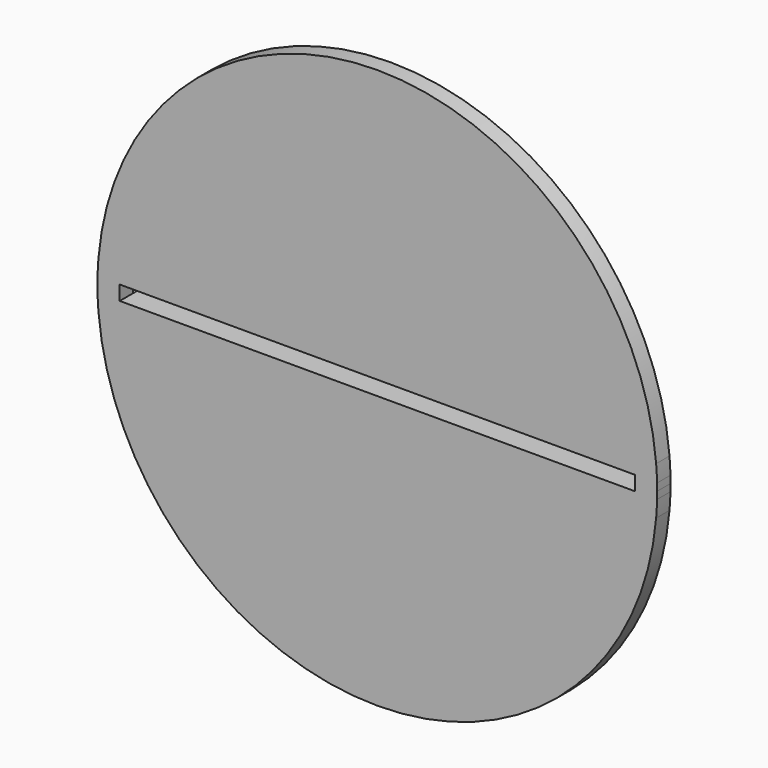
from build123d import *

# Parameters (mm, degrees)
F0_W     = 50
F0_H     = 3
F0_W_2   = 21.25
F1_DEPTH = 3
F2_DEPTH = 2


with BuildPart() as f1:
    # F0 (on Front) → F1 (new body)
    with BuildSketch(Plane.XZ):
        with BuildLine():
            ThreePointArc((50.233181265, -1.3), (50.2457951403, -0.6500543958), (50.25, 0))
            ThreePointArc((50.25, 0), (50.2457951403, 0.6500543958), (50.233181265, 1.3))
            Line((50.233181265, 1.3), (46.25, 1.3))
            Line((46.25, 1.3), (46.25, -1.3))
            Line((46.25, -1.3), (50.233181265, -1.3))
        make_face()
        with BuildLine():
            Line((46.25, 1.3), (50.233181265, 1.3))
            ThreePointArc((50.233181265, 1.3), (50.171859503, 2.8012522223), (50.0656818589, 4.3))
            Line((50.0656818589, 4.3), (46.25, 4.3))
            Line((46.25, 4.3), (46.25, 1.3))
        make_face()
        with BuildLine():
            ThreePointArc((50.0656818589, -4.3), (50.171859503, -2.8012522223), (50.233181265, -1.3))
            Line((50.233181265, -1.3), (46.25, -1.3))
            Line((46.25, -1.3), (46.25, -4.3))
            Line((46.25, -4.3), (50.0656818589, -4.3))
        make_face()
        with BuildLine():
            Line((46.25, 4.3), (50.0656818589, 4.3))
            ThreePointArc((50.0656818589, 4.3), (0, 50.25), (-50.0656818589, 4.3))
            Line((-50.0656818589, 4.3), (-46.25, 4.3))
            Line((-46.25, 4.3), (-25, 4.3))
            Line((-25, 4.3), (25, 4.3))
            Line((25, 4.3), (46.25, 4.3))
        make_face()
        with BuildLine():
            ThreePointArc((-50.0656818589, -4.3), (0, -50.25), (50.0656818589, -4.3))
            Line((50.0656818589, -4.3), (46.25, -4.3))
            Line((46.25, -4.3), (25, -4.3))
            Line((25, -4.3), (-25, -4.3))
            Line((-25, -4.3), (-46.25, -4.3))
            Line((-46.25, -4.3), (-50.0656818589, -4.3))
        make_face()
        with BuildLine():
            Line((-46.25, 4.3), (-50.0656818589, 4.3))
            ThreePointArc((-50.0656818589, 4.3), (-50.171859503, 2.8012522223), (-50.233181265, 1.3))
            Line((-50.233181265, 1.3), (-46.25, 1.3))
            Line((-46.25, 1.3), (-46.25, 4.3))
        make_face()
        with BuildLine():
            ThreePointArc((-50.233181265, -1.3), (-50.171859503, -2.8012522223), (-50.0656818589, -4.3))
            Line((-50.0656818589, -4.3), (-46.25, -4.3))
            Line((-46.25, -4.3), (-46.25, -1.3))
            Line((-46.25, -1.3), (-50.233181265, -1.3))
        make_face()
        with BuildLine():
            Line((-46.25, 1.3), (-50.233181265, 1.3))
            ThreePointArc((-50.233181265, 1.3), (-50.25, 0), (-50.233181265, -1.3))
            Line((-50.233181265, -1.3), (-46.25, -1.3))
            Line((-46.25, -1.3), (-46.25, 1.3))
        make_face()
        with Locations((0, -2.8)):
            Rectangle(F0_W, F0_H)
        with Locations((0, 2.8)):
            Rectangle(F0_W, F0_H)
        with Locations((-35.625, 2.8)):
            Rectangle(F0_W_2, F0_H)
        with Locations((35.625, 2.8)):
            Rectangle(F0_W_2, F0_H)
        with Locations((35.625, -2.8)):
            Rectangle(F0_W_2, F0_H)
        with Locations((-35.625, -2.8)):
            Rectangle(F0_W_2, F0_H)
    extrude(amount=F1_DEPTH)

    # F0 (on Front) → F2 (join)
    with BuildSketch(Plane.XZ):
        with Locations((0, -2.8)):
            Rectangle(F0_W, F0_H)
        with Locations((0, 2.8)):
            Rectangle(F0_W, F0_H)
        with Locations((35.625, -2.8)):
            Rectangle(F0_W_2, F0_H)
        with Locations((35.625, 2.8)):
            Rectangle(F0_W_2, F0_H)
        with Locations((-35.625, 2.8)):
            Rectangle(F0_W_2, F0_H)
        with Locations((-35.625, -2.8)):
            Rectangle(F0_W_2, F0_H)
    extrude(amount=-F2_DEPTH)


solid = f1.part
